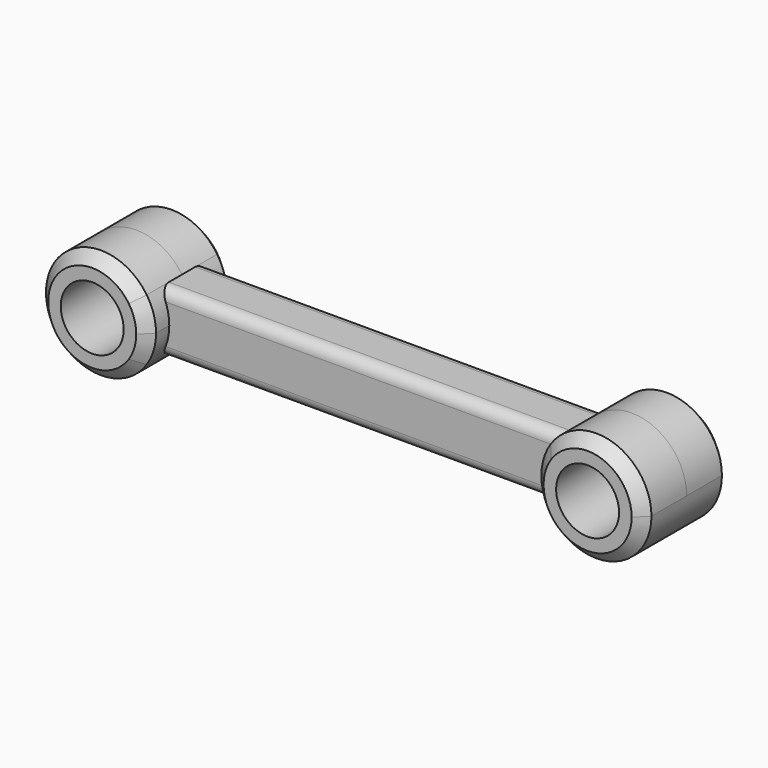
from build123d import *

# Parameters (mm, degrees)
F1_DEPTH      = 12.7
F1_DEPTH_BACK = 12.7
F2_DEPTH      = 25.4
F2_DEPTH_BACK = 25.4
F3_DEPTH      = 25.4
F3_DEPTH_BACK = 25.4
F4_R          = 14.5162780277
F5_DEPTH      = 50.801
F6_R          = 14.5162780277
F7_DEPTH      = 50.801
F8_SIZE       = 5.08
F8_2_SIZE     = 5.08
F9_R          = 5.08


with BuildPart() as f1:
    # F0 (on Front) → F1 (new body, two sides)
    with BuildSketch(Plane.XZ) as f1_sk:
        with BuildLine():
            ThreePointArc((-88.9, 0), (-89.9997339516, -7.3930419976), (-93.2037062975, -14.1458966494))
            Line((-93.2037062975, -14.1458966494), (93.2037062975, -14.1458966494))
            ThreePointArc((93.2037062975, -14.1458966494), (88.9, 0), (93.2037062975, 14.1458966494))
            Line((93.2037062975, 14.1458966494), (-93.2037062975, 14.1458966494))
            ThreePointArc((-93.2037062975, 14.1458966494), (-89.9997339516, 7.3930419976), (-88.9, 0))
        make_face()
    extrude(amount=F1_DEPTH)
    extrude(f1_sk.sketch, amount=-F1_DEPTH_BACK)

    # F9
    f9_edges = [f1.edges().sort_by_distance(p)[0] for p in [
        (0, -12.7, 14.145897),
        (0, 12.7, 14.145897),
        (0, -12.7, -14.145897),
        (0, 12.7, -14.145897),
    ]]
    fillet(f9_edges, radius=F9_R)


with BuildPart() as f2:
    # F0 (on Front) → F2 (new body, two sides)
    with BuildSketch(Plane.XZ) as f2_sk:
        with BuildLine():
            Line((-93.2037062975, -14.1458966494), (-114.3, -14.1458966494))
            Line((-114.3, -14.1458966494), (-114.3, 14.1458966494))
            Line((-114.3, 14.1458966494), (-93.2037062975, 14.1458966494))
            ThreePointArc((-93.2037062975, 14.1458966494), (-139.7, 0), (-93.2037062975, -14.1458966494))
        make_face()
        with BuildLine():
            Line((-114.3, 14.1458966494), (-114.3, -14.1458966494))
            Line((-114.3, -14.1458966494), (-93.2037062975, -14.1458966494))
            ThreePointArc((-93.2037062975, -14.1458966494), (-89.9997339516, -7.3930419976), (-88.9, 0))
            ThreePointArc((-88.9, 0), (-89.9997339516, 7.3930419976), (-93.2037062975, 14.1458966494))
            Line((-93.2037062975, 14.1458966494), (-114.3, 14.1458966494))
        make_face()
    extrude(amount=F2_DEPTH)
    extrude(f2_sk.sketch, amount=-F2_DEPTH_BACK)

    # F4 (on face) → F5 (cut, through all)
    with BuildSketch(Plane.XZ.offset(25.4)):
        with Locations((-114.3, 0)):
            Circle(F4_R)
    extrude(amount=-F5_DEPTH, mode=Mode.SUBTRACT)

    # F8
    f8_edges = [f2.edges().sort_by_distance(p)[0] for p in [
        (-135.396294, -25.4, 14.145897),
        (-135.396294, 25.4, 14.145897),
    ]]
    chamfer(f8_edges, length=F8_SIZE)


with BuildPart() as f3:
    # F0 (on Front) → F3 (new body, two sides)
    with BuildSketch(Plane.XZ) as f3_sk:
        with BuildLine():
            Line((114.3, -14.1458966494), (93.2037062975, -14.1458966494))
            ThreePointArc((93.2037062975, -14.1458966494), (121.6930419976, -24.3002660484), (139.7, 0))
            ThreePointArc((139.7, 0), (121.6930419976, 24.3002660484), (93.2037062975, 14.1458966494))
            Line((93.2037062975, 14.1458966494), (114.3, 14.1458966494))
            Line((114.3, 14.1458966494), (114.3, -14.1458966494))
        make_face()
        with BuildLine():
            ThreePointArc((93.2037062975, 14.1458966494), (88.9, 0), (93.2037062975, -14.1458966494))
            Line((93.2037062975, -14.1458966494), (114.3, -14.1458966494))
            Line((114.3, -14.1458966494), (114.3, 14.1458966494))
            Line((114.3, 14.1458966494), (93.2037062975, 14.1458966494))
        make_face()
    extrude(amount=F3_DEPTH)
    extrude(f3_sk.sketch, amount=-F3_DEPTH_BACK)

    # F6 (on face) → F7 (cut, through all)
    with BuildSketch(Plane.XZ.offset(25.4)):
        with Locations((114.3, 0)):
            Circle(F6_R)
    extrude(amount=-F7_DEPTH, mode=Mode.SUBTRACT)

    # F8#2
    f8_2_edges = [f3.edges().sort_by_distance(p)[0] for p in [
        (88.9, -25.4, 0),
        (88.9, 25.4, 0),
    ]]
    chamfer(f8_2_edges, length=F8_2_SIZE)


solid = Compound([f1.part, f2.part, f3.part])
